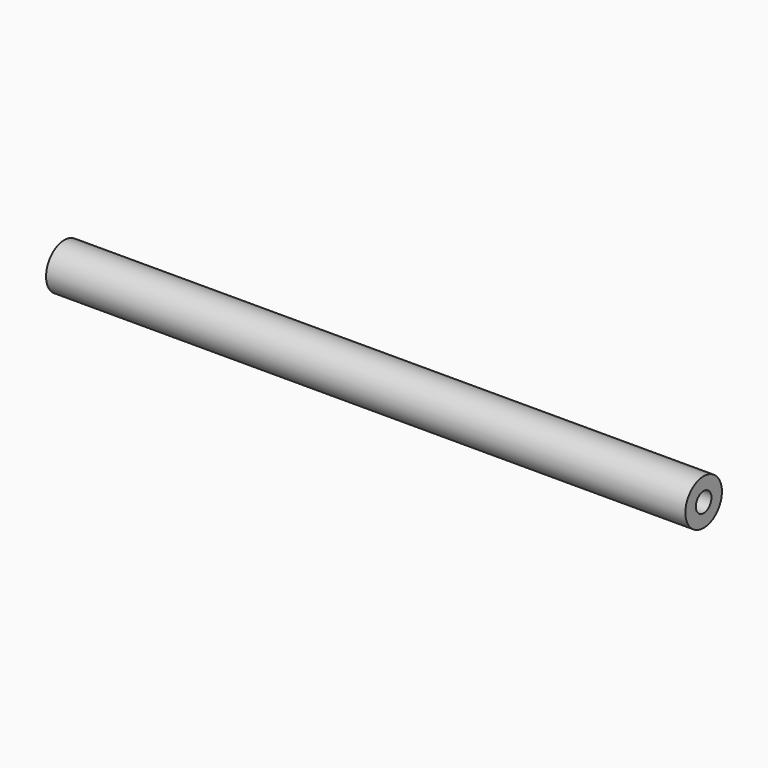
from build123d import *

# Parameters (mm, degrees)
F0_R           = 3.175
F1_DEPTH       = 44.45
F4_D           = 2.7178
F4_DEPTH       = 14.2875
F4_TIP         = 0.8165094952
F4_ON_F2_D     = 2.7178
F4_ON_F2_DEPTH = 14.2875
F4_ON_F2_TIP   = 0.8165094952


with BuildPart() as f1:
    # F0 (on Right) → F1 (new body, symmetric)
    with BuildSketch(Plane.YZ):
        Circle(F0_R)
    extrude(amount=F1_DEPTH, both=True)

    # F4
    with Locations(Plane(origin=(-44.45, 0, 0), x_dir=(0, -1, 0), z_dir=(-1, 0, 0))):
        with Locations((0, 0)):
            Hole(F4_D / 2, depth=F4_DEPTH)
            with Locations((0, 0, -(F4_DEPTH + F4_TIP / 2))):  # 118° drill point
                Cone(0, F4_D / 2, F4_TIP, mode=Mode.SUBTRACT)

    # F4 on F2
    with Locations(Plane.YZ.offset(44.45)):
        with Locations((0, 0)):
            Hole(F4_ON_F2_D / 2, depth=F4_ON_F2_DEPTH)
            with Locations((0, 0, -(F4_ON_F2_DEPTH + F4_ON_F2_TIP / 2))):  # 118° drill point
                Cone(0, F4_ON_F2_D / 2, F4_ON_F2_TIP, mode=Mode.SUBTRACT)


solid = f1.part
